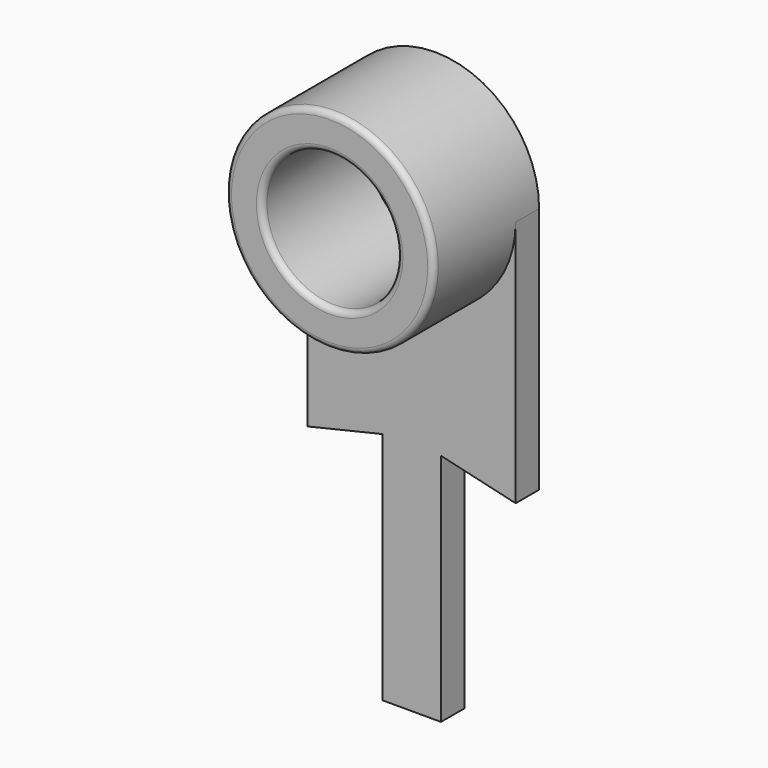
from build123d import *

# Parameters (mm, degrees)
SKETCH103_R   = 1.15
PAD064_DEPTH  = 0.5
SKETCH104_R   = 1.775
SKETCH104_R_2 = 1.15
PAD065_DEPTH  = 1.75
FILLET007_R   = 0.1


with BuildPart() as part:
    # Sketch103 → Pad064 (new body)
    with BuildSketch(Plane.XZ):
        with BuildLine():
            Line((1.775, 0), (1.775, -4.225))
            Line((1.775, -4.225), (0.5, -3.925))
            Line((0.5, -3.925), (0.5, -7.925))
            Line((0.5, -7.925), (-0.5, -7.925))
            Line((-0.5, -7.925), (-0.5, -3.925))
            Line((-0.5, -3.925), (-1.775, -4.225))
            Line((-1.775, -4.225), (-1.775, 0))
            ThreePointArc((1.775, 0), (0, 1.775), (-1.775, 0))
        make_face()
        Circle(SKETCH103_R, mode=Mode.SUBTRACT)
    extrude(amount=PAD064_DEPTH)

    # Sketch104 (on Face11 of Pad064) → Pad065 (join)
    with BuildSketch(Plane.XZ.offset(0.5)):
        Circle(SKETCH104_R)
        Circle(SKETCH104_R_2, mode=Mode.SUBTRACT)
    extrude(amount=PAD065_DEPTH)

    # Fillet007
    fillet007_edges = [part.edges().sort_by_distance(p)[0] for p in [
        (-1.775, -2.25, 0),
        (-1.15, -2.25, 0),
    ]]
    fillet(fillet007_edges, radius=FILLET007_R)


with BuildPart() as part_1:
    # Body026 placement: moved
    add(part.part.moved(Location((-5, 0.5, -8))))


solid = part_1.part
